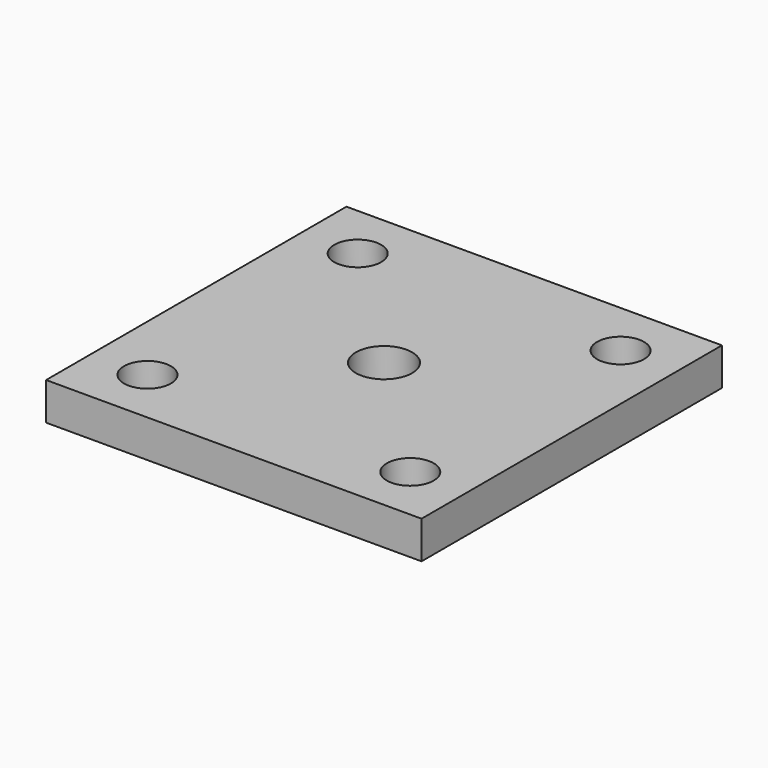
from build123d import *

# Parameters (mm, degrees)
F0_W     = 20
F0_H     = 20
F1_DEPTH = 2
F3_D     = 2.5
F4_R     = 1.5
F5_DEPTH = 25


with BuildPart() as f1:
    # F0 (on Top) → F1 (new body)
    with BuildSketch(Plane.XY):
        Rectangle(F0_W, F0_H)
    extrude(amount=-F1_DEPTH)

    # F3 (through all)
    with Locations(Plane.XY):
        with Locations((-7, 7), (7, 7), (-7, -7), (7, -7)):
            Hole(F3_D / 2)

    # F4 (on face) → F5 (cut)
    with BuildSketch(Plane.XY):
        Circle(F4_R)
    extrude(amount=-F5_DEPTH, mode=Mode.SUBTRACT)


solid = f1.part
